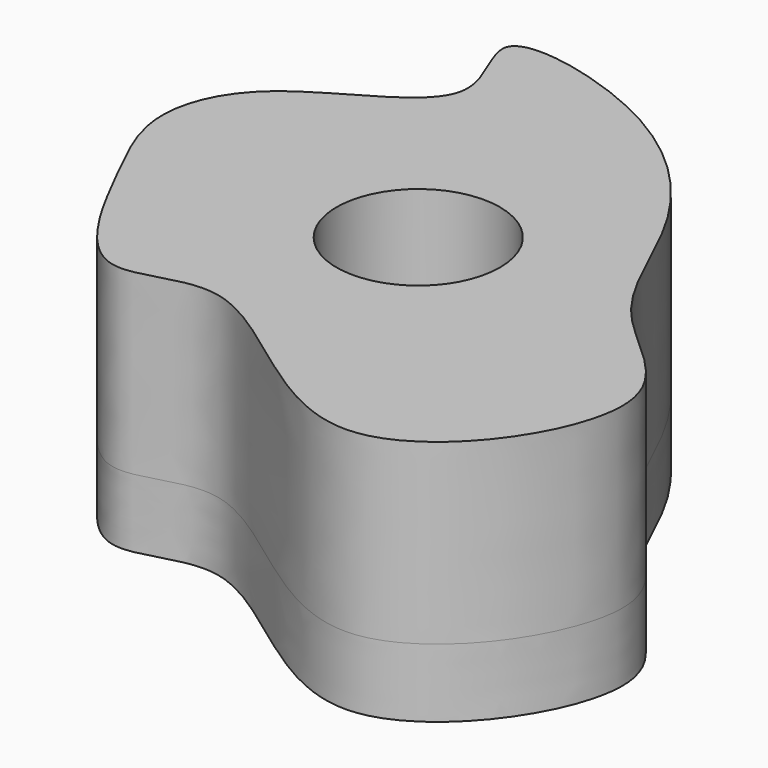
from build123d import *

# Parameters (mm, degrees)
F1_DEPTH = 25
F2_R     = 29.8309422178
F3_DEPTH = 25
F4_DEPTH = 65


with BuildPart() as f1:
    # F0 (on Top) → F1 (new body)
    with BuildSketch(Plane.XY):
        with BuildLine():
            add(Edge.make_bspline(
                [(-120.478913188, -23.4502851963), (-127.7361105058, -9.0308177291), (-138.3173981606, 11.5099695366), (-122.9894012689, 50.4568321727), (-59.5357603147, 70.8027418624), (-99.7917994387, 119.6051685705), (-21.3745821277, 102.9641305062), (24.9801771712, 53.5758698373), (41.0404531673, -3.687713407), (103.3812606847, -35.6672679022), (30.4821086088, -143.4907075484), (-47.5014114427, -44.3987770448), (-91.1033337301, -82.4508573526), (-111.8070323614, -40.6806150305), (-120.478913188, -23.4502851963)],
                knots=[0, 0, 0, 0, 0.070732652, 0.1399473882, 0.2225729987, 0.2853769031, 0.3672812843, 0.4644641114, 0.5508234144, 0.6345697536, 0.7369582776, 0.8464724297, 0.9154790615, 1, 1, 1, 1], degree=3))
        make_face()
    extrude(amount=F1_DEPTH)

    # F2 (on face) → F3 (cut)
    with BuildSketch(Plane.XY.offset(25)):
        with Locations((-29.1767511517, 0)):
            Circle(F2_R)
    extrude(amount=-F3_DEPTH, mode=Mode.SUBTRACT)

    # F4 (add): a face of the model
    f4_faces = [f1.faces().sort_by_distance(p)[0] for p in [
        (40.7031138528, 5.2065083786, 25),
    ]]
    extrude(f4_faces, amount=F4_DEPTH)


solid = f1.part
